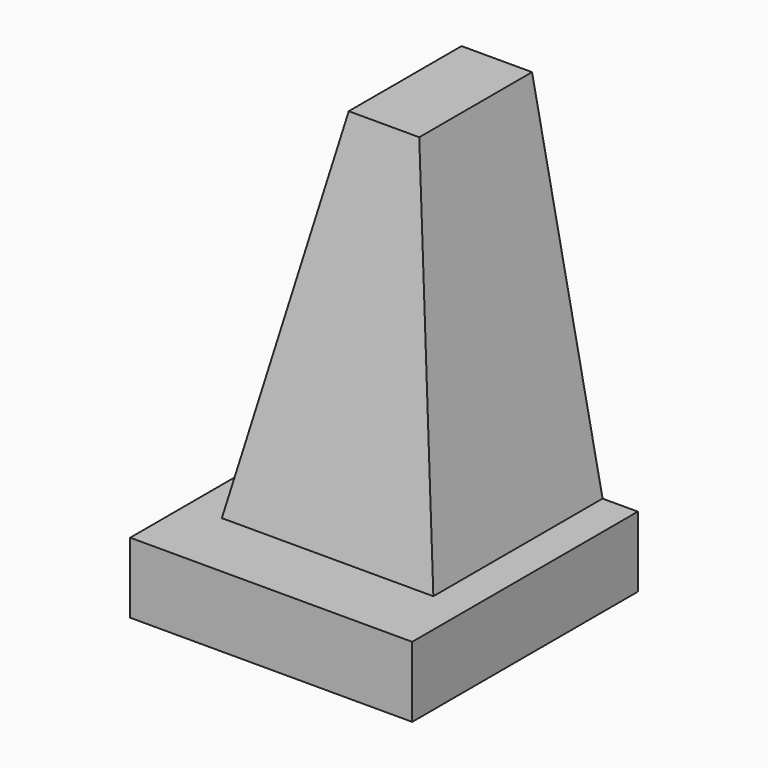
from build123d import *

# Parameters (mm, degrees)
F0_W     = 101.6
F0_H     = 101.6
F1_DEPTH = 25.4
F4_W     = 25.4
F4_H     = 50.8
F2_W     = 76.2
F2_H     = 76.2


with BuildPart() as f1:
    # F0 (on Top) → F1 (new body)
    with BuildSketch(Plane.XY):
        with Locations((50.8, 50.8)):
            Rectangle(F0_W, F0_H)
    extrude(amount=F1_DEPTH)

    # F4 (on offset) → F5 section 0
    with BuildSketch(Plane.XY.offset(152.4)):
        with Locations((50.8, 76.2)):
            Rectangle(F4_W, F4_H)
    # F2 (on face) → F5 section 1
    with BuildSketch(Plane.XY.offset(25.4)):
        with Locations((50.8, 63.5)):
            Rectangle(F2_W, F2_H)
    loft()


solid = f1.part
